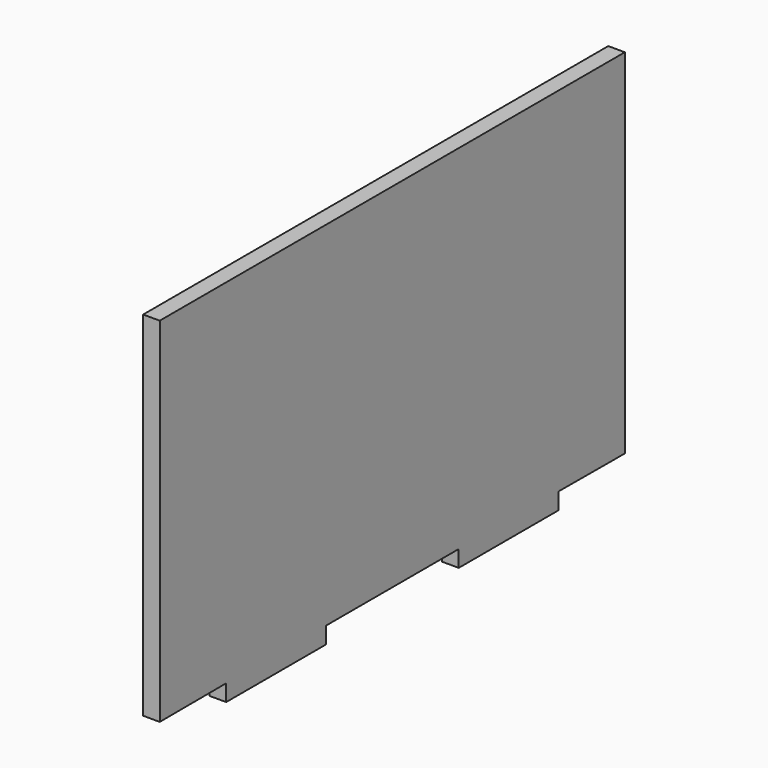
from build123d import *

# Parameters (mm, degrees)
F1_DEPTH = 5.08


with BuildPart() as f1:
    # F0 (on Right) → F1 (new body)
    with BuildSketch(Plane.YZ):
        Polygon((-25.4, 0.091885), (0, 0.091885), (25.4, 0.091885), (25.4, -4.988115), (63.5, -4.988115), (63.5, 0.091885), (88.9, 0), (88.9, 6.436423), (88.9, 108.036423), (-88.9, 108.036423), (-88.9, 6.436423), (-88.9, 0), (-63.5, 0.091885), (-63.5, -4.988115), (-25.4, -4.988115), align=None)
    extrude(amount=F1_DEPTH)


solid = f1.part
